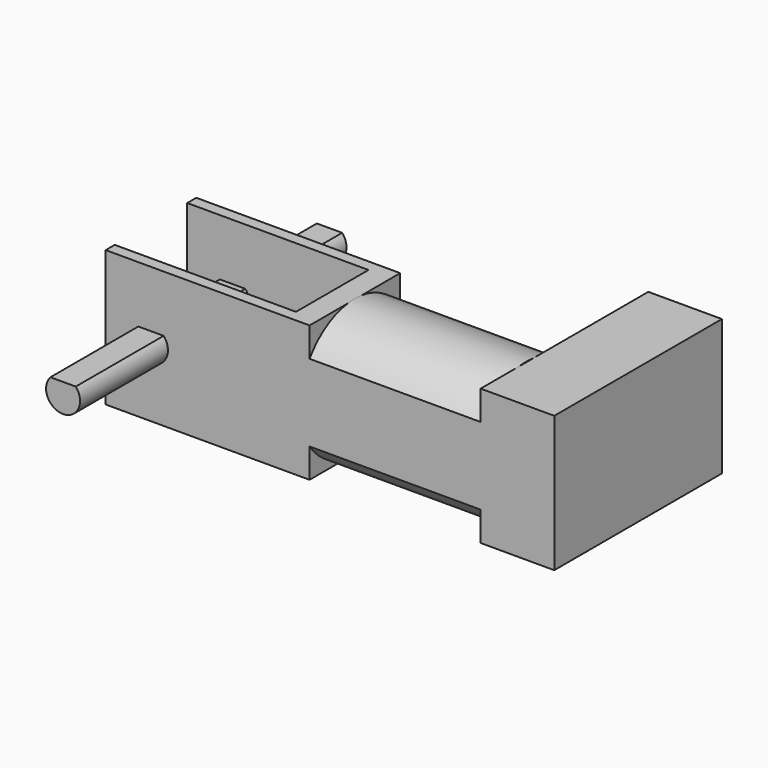
from build123d import *

# Parameters (mm, degrees)
PAD_DEPTH    = 6
PAD001_DEPTH = 14.7
PAD002_DEPTH = 15.1
SKETCH003_W  = 18.5
SKETCH003_H  = 12
PAD003_DEPTH = 6.5


with BuildPart() as part:
    # Sketch → Pad (new body, symmetric)
    with BuildSketch(Plane.XY):
        Polygon((-4, 5), (14, 5), (14, -5), (-4, -5), (-4, -4), (12, -4), (12, 4), (-4, 4), align=None)
    extrude(amount=PAD_DEPTH, both=True)

    # Sketch001 → Pad001 (join, symmetric)
    with BuildSketch(Plane.XZ):
        with BuildLine():
            ThreePointArc((-1.118034, 1), (0, -1.5), (1.118034, 1))
            Line((-1.118034, 1), (1.118034, 1))
        make_face()
    extrude(amount=PAD001_DEPTH, both=True)

    # Sketch002 (on DatumPlane) → Pad002 (join)
    with BuildSketch(Plane.YZ.offset(14)):
        with BuildLine():
            ThreePointArc((5, 3.406244), (0, 6.05), (-5, 3.406244))
            Line((-5, -3.406244), (-5, 3.406244))
            ThreePointArc((-5, -3.406244), (0, -6.05), (5, -3.406244))
            Line((5, 3.406244), (5, -3.406244))
        make_face()
    extrude(amount=PAD002_DEPTH)

    # Sketch003 (on DatumPlane) → Pad003 (join)
    with BuildSketch(Plane.YZ.offset(29.1)):
        with Locations((4.25, 0)):
            Rectangle(SKETCH003_W, SKETCH003_H)
    extrude(amount=PAD003_DEPTH)


solid = part.part
